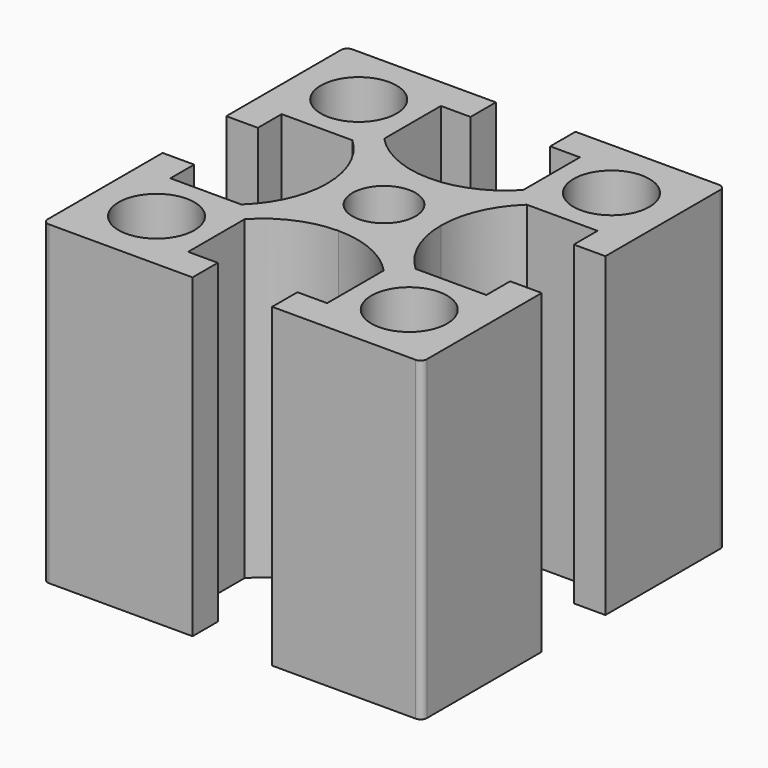
from build123d import *

# Parameters (mm, degrees)
F0_R     = 3
F0_R_2   = 2.5
F1_DEPTH = 25


with BuildPart() as f1:
    # F0 (on Top) → F1 (new body)
    with BuildSketch(Plane.XY):
        with BuildLine():
            ThreePointArc((-14.5, 15), (-14.853553, 14.853553), (-15, 14.5))
            Line((-15, 14.5), (-15, 3.15))
            Line((-15, 3.15), (-12.5, 3.15))
            Line((-12.5, 3.15), (-12.5, 5.5))
            Line((-12.5, 5.5), (-6.90098, 5.5))
            ThreePointArc((-6.90098, 5.5), (-5.126404, 3.000613), (-4.5, 0))
            ThreePointArc((-4.5, 0), (-5.126404, -3.000613), (-6.90098, -5.5))
            Line((-6.90098, -5.5), (-12.5, -5.5))
            Line((-12.5, -5.5), (-12.5, -3.15))
            Line((-12.5, -3.15), (-15, -3.15))
            Line((-15, -3.15), (-15, -14.5))
            ThreePointArc((-15, -14.5), (-14.853553, -14.853553), (-14.5, -15))
            Line((-14.5, -15), (-3.15, -15))
            Line((-3.15, -15), (-3.15, -12.5))
            Line((-3.15, -12.5), (-5.5, -12.5))
            Line((-5.5, -12.5), (-5.5, -6.90098))
            ThreePointArc((-5.5, -6.90098), (-3.000613, -5.126404), (0, -4.5))
            ThreePointArc((0, -4.5), (3.000613, -5.126404), (5.5, -6.90098))
            Line((5.5, -6.90098), (5.5, -12.5))
            Line((5.5, -12.5), (3.15, -12.5))
            Line((3.15, -12.5), (3.15, -15))
            Line((3.15, -15), (14.5, -15))
            ThreePointArc((14.5, -15), (14.853553, -14.853553), (15, -14.5))
            Line((15, -14.5), (15, -3.15))
            Line((15, -3.15), (12.5, -3.15))
            Line((12.5, -3.15), (12.5, -5.5))
            Line((12.5, -5.5), (6.90098, -5.5))
            ThreePointArc((6.90098, -5.5), (5.126404, -3.000613), (4.5, 0))
            ThreePointArc((4.5, 0), (5.126404, 3.000613), (6.90098, 5.5))
            Line((6.90098, 5.5), (12.5, 5.5))
            Line((12.5, 5.5), (12.5, 3.15))
            Line((12.5, 3.15), (15, 3.15))
            Line((15, 3.15), (15, 14.5))
            ThreePointArc((15, 14.5), (14.853553, 14.853553), (14.5, 15))
            Line((14.5, 15), (3.15, 15))
            Line((3.15, 15), (3.15, 12.5))
            Line((3.15, 12.5), (5.5, 12.5))
            Line((5.5, 12.5), (5.5, 6.90098))
            ThreePointArc((5.5, 6.90098), (3.000613, 5.126404), (0, 4.5))
            ThreePointArc((0, 4.5), (-3.000613, 5.126404), (-5.5, 6.90098))
            Line((-5.5, 6.90098), (-5.5, 12.5))
            Line((-5.5, 12.5), (-3.15, 12.5))
            Line((-3.15, 12.5), (-3.15, 15))
            Line((-3.15, 15), (-14.5, 15))
        make_face()
        with Locations((-10, -10)):
            Circle(F0_R, mode=Mode.SUBTRACT)
        with Locations((10, -10)):
            Circle(F0_R, mode=Mode.SUBTRACT)
        Circle(F0_R_2, mode=Mode.SUBTRACT)
        with Locations((-10, 10)):
            Circle(F0_R, mode=Mode.SUBTRACT)
        with Locations((10, 10)):
            Circle(F0_R, mode=Mode.SUBTRACT)
    extrude(amount=F1_DEPTH)


solid = f1.part
